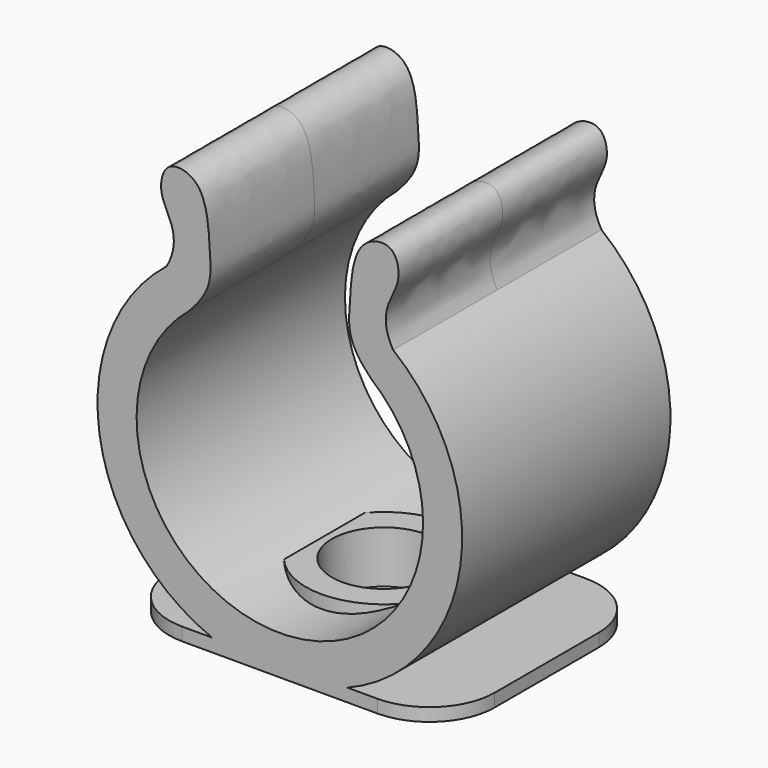
from build123d import *

# Parameters (mm, degrees)
F1_DEPTH = 10
F2_R     = 6
F3_DEPTH = 4
F4_R     = 4
F5_DEPTH = 10
F6_R     = 5


with BuildPart() as f1:
    # F0 (on Front) → F1 (new body, symmetric)
    with BuildSketch(Plane.XZ):
        with BuildLine():
            ThreePointArc((7, 22.4852813742), (0, 3), (-7, 22.4852813742))
            add(Edge.make_bspline(
                [(-7, 22.4852813742), (-5.1542492628, 24.3642576378), (-5.383043398, 26.465009025), (-5.5757776405, 31.6348656323), (-8.6717930899, 32.2598112247), (-9.2717350937, 30.3274583513), (-8.8218524107, 28.8029520329), (-7.6191061655, 26.8362228312), (-8.7023294593, 24.9667434538)],
                knots=[0, 0, 0, 0, 0.2137400895, 0.4192281529, 0.5625338357, 0.6842203235, 0.8049327555, 1, 1, 1, 1], degree=3))
            ThreePointArc((-8.7023294593, 24.9667434538), (-13.8525502201, 11.973462954), (-5.1961524227, 1))
            Line((-5.1961524227, 1), (5.1961524227, 1))
            ThreePointArc((5.1961524227, 1), (13.8525502201, 11.973462954), (8.7023294593, 24.9667434538))
            add(Edge.make_bspline(
                [(7, 22.4852813742), (5.1542492628, 24.3642576378), (5.383043398, 26.465009025), (5.5757776405, 31.6348656323), (8.6717930899, 32.2598112247), (9.2717350937, 30.3274583513), (8.8218524107, 28.8029520329), (7.6191061655, 26.8362228312), (8.7023294593, 24.9667434538)],
                knots=[0, 0, 0, 0, 0.2137400895, 0.4192281529, 0.5625338357, 0.6842203235, 0.8049327555, 1, 1, 1, 1], degree=3))
        make_face()
        with BuildLine():
            Line((5.1961524227, 1), (-5.1961524227, 1))
            ThreePointArc((-5.1961524227, 1), (-2.6457513361, 0.25227292), (-5.11e-08, 0))
            ThreePointArc((-5.11e-08, 0), (2.645751286, 0.2522729103), (5.1961524227, 1))
        make_face()
        with BuildLine():
            ThreePointArc((-5.11e-08, 0), (-2.6457513361, 0.25227292), (-5.1961524227, 1))
            Line((-5.1961524227, 1), (-12.5, 1))
            Line((-12.5, 1), (-12.5, 0))
            Line((-12.5, 0), (-5.11e-08, 0))
        make_face()
        with BuildLine():
            Line((12.5, 1), (5.1961524227, 1))
            ThreePointArc((5.1961524227, 1), (2.645751286, 0.2522729103), (-5.11e-08, 0))
            Line((-5.11e-08, 0), (12.5, 0))
            Line((12.5, 0), (12.5, 1))
        make_face()
    extrude(amount=F1_DEPTH, both=True)

    # F2 (on face) → F3 (join)
    with BuildSketch(Plane(origin=(0, 0, 0), x_dir=(1, 0, 0), z_dir=(0, 0, -1))):
        Circle(F2_R)
    extrude(amount=-F3_DEPTH)

    # F4 (on face) → F5 (cut)
    with BuildSketch(Plane(origin=(0, 0, 0), x_dir=(1, 0, 0), z_dir=(0, 0, -1))):
        Circle(F4_R)
    extrude(amount=-F5_DEPTH, mode=Mode.SUBTRACT)

    # F6
    f6_edges = [f1.edges().sort_by_distance(p)[0] for p in [
        (12.5, -10, 0.5),
        (12.5, 10, 0.5),
        (-12.5, 10, 0.5),
        (-12.5, -10, 0.5),
    ]]
    fillet(f6_edges, radius=F6_R)


solid = f1.part
